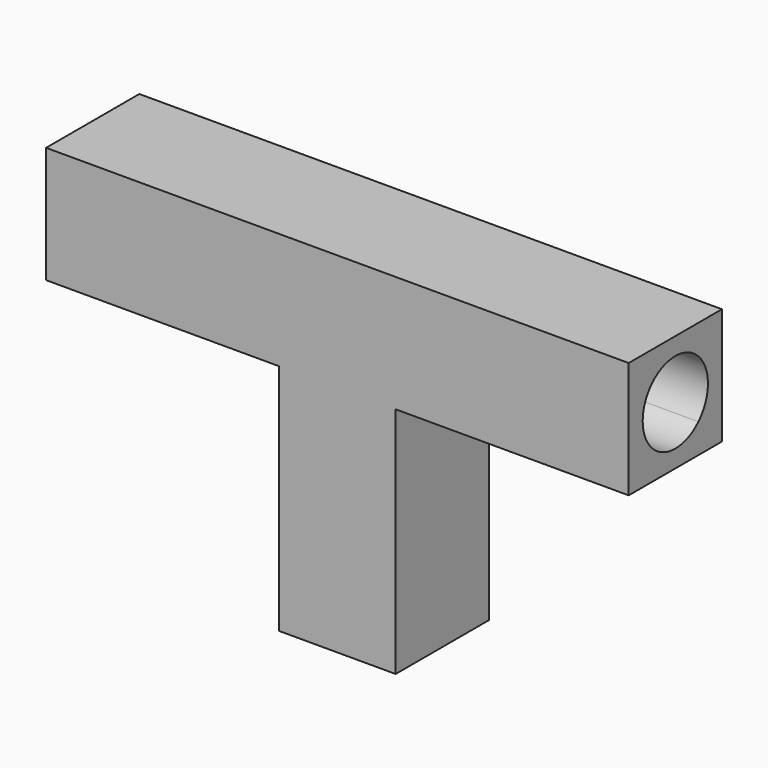
from build123d import *

# Parameters (mm, degrees)
F1_DEPTH = 10
F3_DEPTH = 50.001


with BuildPart() as f1:
    # F0 (on Front) → F1 (new body)
    with BuildSketch(Plane.XZ):
        Polygon((25, -5), (25, 5), (-25, 5), (-25, -5), (-5, -5), (-5, -25), (5, -25), (5, -5), align=None)
    extrude(amount=F1_DEPTH)

    # F2 (on face) → F3 (cut, through all)
    with BuildSketch(Plane(origin=(-25, 0, 0), x_dir=(0, -1, 0), z_dir=(-1, 0, 0))):
        with BuildLine():
            ThreePointArc((2.525126, -2.474874), (6.339392, -3.233578), (8.5, 0))
            ThreePointArc((8.5, 0), (8.233578, 1.339392), (7.474874, 2.474874))
            ThreePointArc((7.474874, 2.474874), (2.525126, 2.474874), (2.525126, -2.474874))
        make_face()
    extrude(amount=-F3_DEPTH, mode=Mode.SUBTRACT)


solid = f1.part
